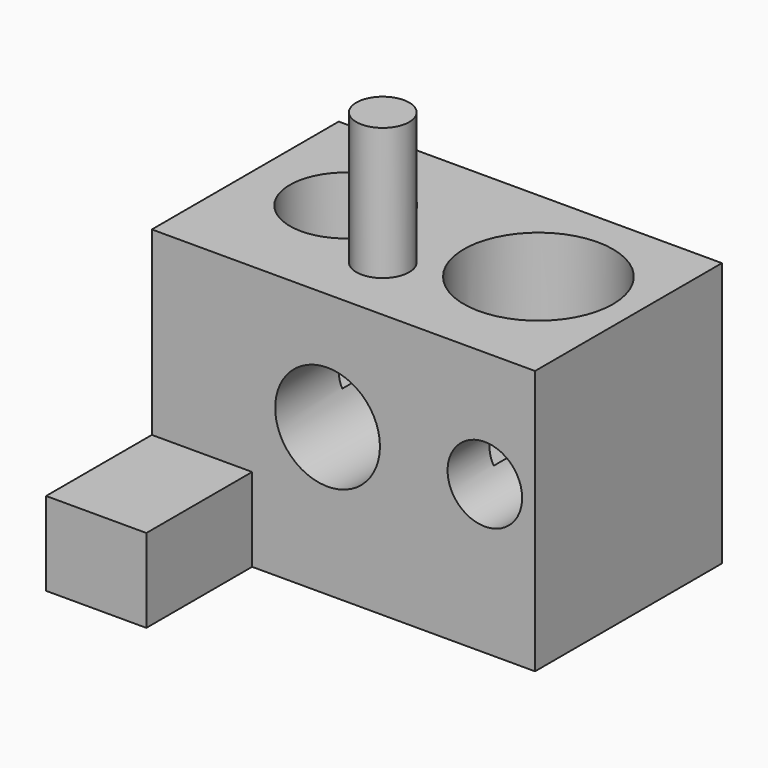
from build123d import *

# Parameters (mm, degrees)
F0_W      = 73.615912
F0_H      = 44.880818
F1_DEPTH  = 50.8
F2_R      = 10.722735
F2_R_2    = 14.315515
F3_DEPTH  = 25.4
F4_R      = 5.08
F5_DEPTH  = 25.4
F6_R      = 10.061194
F7_DEPTH  = 25.4
F8_R      = 7.163215
F9_DEPTH  = 25.4
F10_W     = 19.266809
F10_H     = 16.048783
F11_DEPTH = 25.4


with BuildPart() as f1:
    # F0 (on Top) → F1 (new body)
    with BuildSketch(Plane.XY):
        with Locations((3.049085, -1.806261)):
            Rectangle(F0_W, F0_H)
    extrude(amount=F1_DEPTH)

    # F2 (on face) → F3 (cut)
    with BuildSketch(Plane.XY.offset(50.8)):
        with Locations((-15.909195, 0)):
            Circle(F2_R)
        with Locations((21.110246, 0)):
            Circle(F2_R_2)
    extrude(amount=-F3_DEPTH, mode=Mode.SUBTRACT)

    # F4 (on face) → F5 (join)
    with BuildSketch(Plane.XY.offset(50.8)):
        with Locations((0, -10.984484)):
            Circle(F4_R)
    extrude(amount=F5_DEPTH)

    # F6 (on face) → F7 (cut)
    with BuildSketch(Plane.XZ.offset(24.24667)):
        with Locations((0, 28.342469)):
            Circle(F6_R)
    extrude(amount=-F7_DEPTH, mode=Mode.SUBTRACT)

    # F8 (on face) → F9 (cut)
    with BuildSketch(Plane.XZ.offset(24.24667)):
        with Locations((30.216709, 28.516769)):
            Circle(F8_R)
    extrude(amount=-F9_DEPTH, mode=Mode.SUBTRACT)

    # F10 (on face) → F11 (join)
    with BuildSketch(Plane.XZ.offset(24.24667)):
        with Locations((-24.125466, 8.024392)):
            Rectangle(F10_W, F10_H)
    extrude(amount=F11_DEPTH)


solid = f1.part
